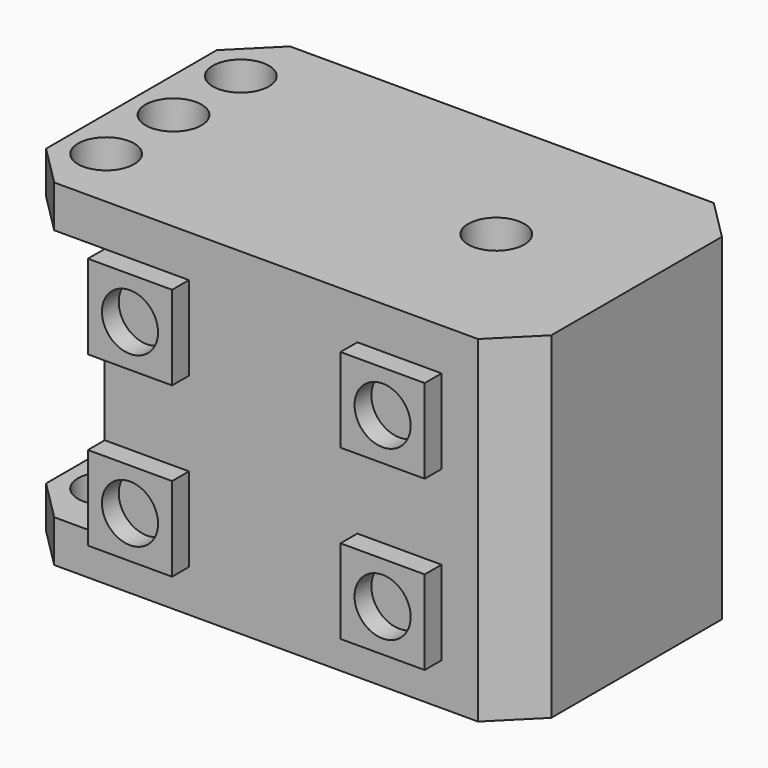
from build123d import *

# Parameters (mm, degrees)
SKETCH_W          = 36
SKETCH_H          = 21
SKETCH_R          = 2
PAD_DEPTH         = 24
SKETCH001_W       = 6.5
SKETCH001_H       = 18
POCKET_DEPTH      = 21
POCKET001_DEPTH   = 24
SKETCH003_W       = 6
SKETCH003_H       = 6
SKETCH003_R       = 2
PAD001_DEPTH      = 1.5
PAD001_DEPTH_BACK = 22.5


with BuildPart() as part:
    # Sketch → Pad (new body)
    with BuildSketch(Plane.XY):
        with Locations((18, 10.5)):
            Rectangle(SKETCH_W, SKETCH_H)
        with Locations((3, 16.5)):
            Circle(SKETCH_R, mode=Mode.SUBTRACT)
        with Locations((3, 10.5)):
            Circle(SKETCH_R, mode=Mode.SUBTRACT)
        with Locations((3, 4.5)):
            Circle(SKETCH_R, mode=Mode.SUBTRACT)
        with Locations((26, 10.5)):
            Circle(SKETCH_R, mode=Mode.SUBTRACT)
    extrude(amount=PAD_DEPTH)

    # Sketch001 → Pocket (cut)
    with BuildSketch(Plane.XZ):
        with Locations((3.25, 12)):
            Rectangle(SKETCH001_W, SKETCH001_H)
    extrude(amount=-POCKET_DEPTH, mode=Mode.SUBTRACT)

    # Sketch002 → Pocket001 (cut)
    with BuildSketch(Plane(origin=(0, 0, 0), x_dir=(1, 0, 0), z_dir=(0, 0, -1))):
        Polygon((0, -18.1), (2.9, -21), (0, -21), align=None)
        Polygon((33.1, -21), (36, -18.1), (36, -21), align=None)
        Polygon((36, -2.9), (33.1, 0), (36, 0), align=None)
        Polygon((2.9, 0), (0, -2.9), (0, 0), align=None)
    extrude(amount=-POCKET001_DEPTH, mode=Mode.SUBTRACT)

    # Sketch003 → Pad001 (new body, two sides)
    with BuildSketch(Plane.XZ) as pad001_sk:
        with Locations((9.5, 18)):
            Rectangle(SKETCH003_W, SKETCH003_H)
        with Locations((9.5, 18)):
            Circle(SKETCH003_R, mode=Mode.SUBTRACT)
        with Locations((9.5, 6)):
            Rectangle(SKETCH003_W, SKETCH003_H)
        with Locations((9.5, 6)):
            Circle(SKETCH003_R, mode=Mode.SUBTRACT)
        with Locations((27.5, 18)):
            Rectangle(SKETCH003_W, SKETCH003_H)
        with Locations((27.5, 18)):
            Circle(SKETCH003_R, mode=Mode.SUBTRACT)
        with Locations((27.5, 6)):
            Rectangle(SKETCH003_W, SKETCH003_H)
        with Locations((27.5, 6)):
            Circle(SKETCH003_R, mode=Mode.SUBTRACT)
    extrude(amount=PAD001_DEPTH)
    extrude(pad001_sk.sketch, amount=-PAD001_DEPTH_BACK)


solid = part.part
